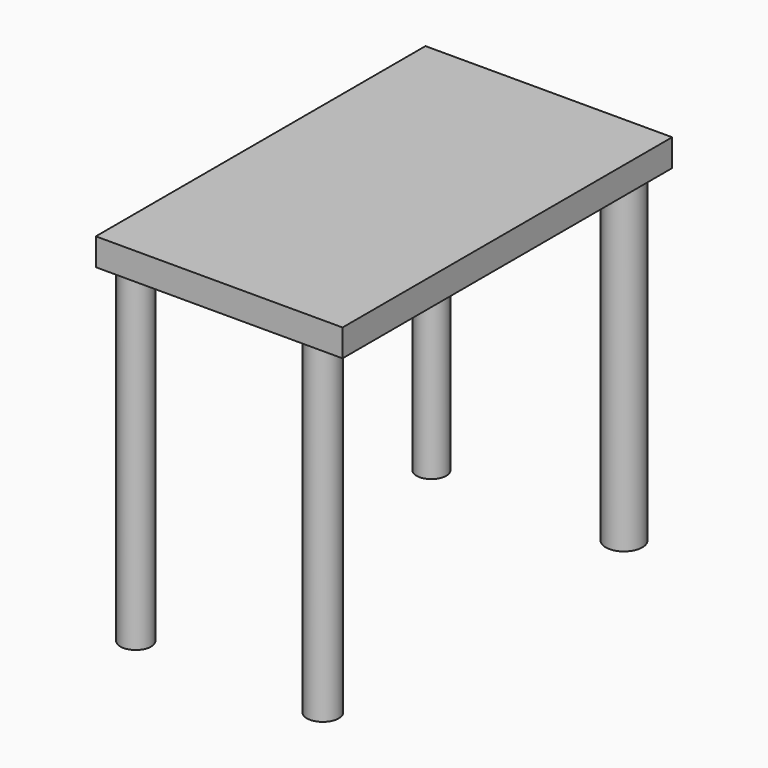
from build123d import *

# Parameters (mm, degrees)
F0_W     = 152.095206
F0_H     = 16.764
F1_DEPTH = 254
F2_R     = 9.455493
F2_R_2   = 9.174566
F2_R_3   = 11.28492
F2_R_4   = 9.817554
F3_DEPTH = 203.2


with BuildPart() as f1:
    # F0 (on Front) → F1 (new body)
    with BuildSketch(Plane.XZ):
        with Locations((0.609603, -1.6764)):
            Rectangle(F0_W, F0_H)
    extrude(amount=F1_DEPTH)

    # F2 (on face) → F3 (join)
    with BuildSketch(Plane(origin=(0, 0, -10.0584), x_dir=(1, 0, 0), z_dir=(0, 0, -1))):
        with Locations((-60.858399, 241.452411)):
            Circle(F2_R)
        with Locations((-60.858399, 13.614404)):
            Circle(F2_R_2)
        with Locations((57.353202, 12.954001)):
            Circle(F2_R_3)
        with Locations((56.032401, 243.43361)):
            Circle(F2_R_4)
    extrude(amount=F3_DEPTH)


solid = f1.part
